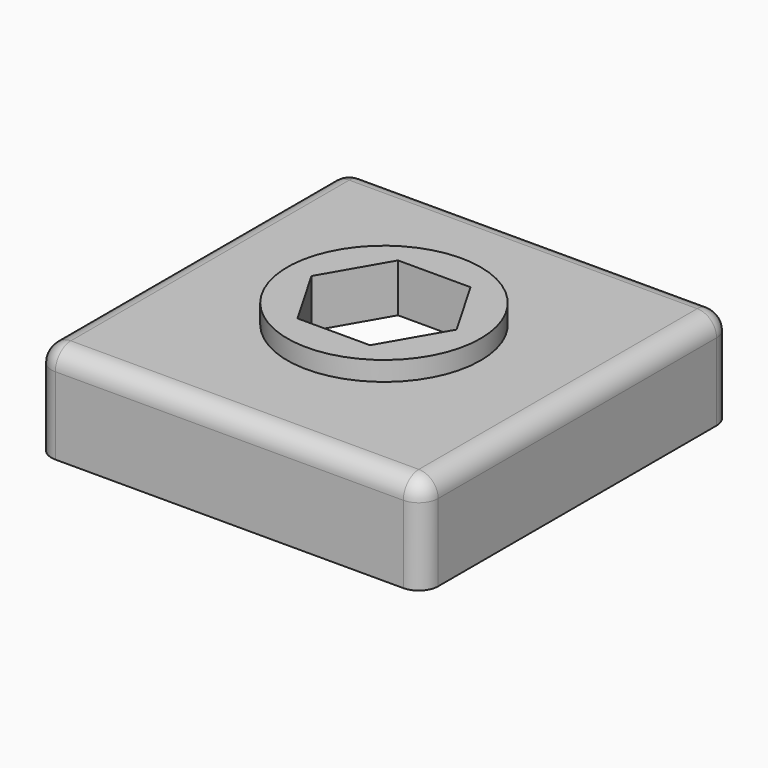
from build123d import *

# Parameters (mm, degrees)
CYLINDER008_R     = 5.5
CYLINDER008_DEPTH = 2
FILLET005_R       = 1
CYLINDER009_R     = 5.5
CYLINDER009_DEPTH = 2
FILLET006_R       = 1
CYLINDER006_R     = 5.5
CYLINDER006_DEPTH = 2
FILLET003_R       = 1
CYLINDER007_R     = 5.5
CYLINDER007_DEPTH = 2
FILLET004_R       = 1
BOX001_W          = 35.5
BOX001_H          = 35.5
BOX001_DEPTH      = 7
FILLET_R          = 1.5
PRISM_DEPTH       = 12
CYLINDER_R        = 10
CYLINDER_DEPTH    = 12
BOX_W             = 40
BOX_H             = 40
BOX_DEPTH         = 10
FILLET001_R       = 2


with BuildPart() as fillet005:
    # Cylinder008 → Cylinder008 (new body)
    with BuildSketch(Plane.XY):
        Circle(CYLINDER008_R)
    extrude(amount=CYLINDER008_DEPTH)

    # Fillet005
    fillet005_edges = [fillet005.edges().sort_by_distance(p)[0] for p in [
        (-5.5, 0, 2),
    ]]
    fillet(fillet005_edges, radius=FILLET005_R)


with BuildPart() as fillet005_1:
    # Fillet005 placement: moved
    add(fillet005.part.moved(Location((10, 30, 7))))


with BuildPart() as fillet006:
    # Cylinder009 → Cylinder009 (new body)
    with BuildSketch(Plane.XY):
        Circle(CYLINDER009_R)
    extrude(amount=CYLINDER009_DEPTH)

    # Fillet006
    fillet006_edges = [fillet006.edges().sort_by_distance(p)[0] for p in [
        (-5.5, 0, 2),
    ]]
    fillet(fillet006_edges, radius=FILLET006_R)


with BuildPart() as fillet006_1:
    # Fillet006 placement: moved
    add(fillet006.part.moved(Location((30, 30, 7))))


with BuildPart() as fillet003:
    # Cylinder006 → Cylinder006 (new body)
    with BuildSketch(Plane.XY):
        Circle(CYLINDER006_R)
    extrude(amount=CYLINDER006_DEPTH)

    # Fillet003
    fillet003_edges = [fillet003.edges().sort_by_distance(p)[0] for p in [
        (-5.5, 0, 2),
    ]]
    fillet(fillet003_edges, radius=FILLET003_R)


with BuildPart() as fillet003_1:
    # Fillet003 placement: moved
    add(fillet003.part.moved(Location((10, 10, 7))))


with BuildPart() as fillet004:
    # Cylinder007 → Cylinder007 (new body)
    with BuildSketch(Plane.XY):
        Circle(CYLINDER007_R)
    extrude(amount=CYLINDER007_DEPTH)

    # Fillet004
    fillet004_edges = [fillet004.edges().sort_by_distance(p)[0] for p in [
        (-5.5, 0, 2),
    ]]
    fillet(fillet004_edges, radius=FILLET004_R)


with BuildPart() as fillet004_1:
    # Fillet004 placement: moved
    add(fillet004.part.moved(Location((30, 10, 7))))


with BuildPart() as fillet_body:
    # Box001 → Box001 (new body)
    with BuildSketch(Plane(origin=(2.25, 2.25, 0), x_dir=(1, 0, 0), z_dir=(0, 0, 1))):
        with Locations((17.75, 17.75)):
            Rectangle(BOX001_W, BOX001_H)
    extrude(amount=BOX001_DEPTH)

    # Fillet
    fillet_edges = [fillet_body.edges().sort_by_distance(p)[0] for p in [
        (2.25, 2.25, 3.5),
        (2.25, 37.75, 3.5),
        (37.75, 2.25, 3.5),
        (37.75, 37.75, 3.5),
    ]]
    fillet(fillet_edges, radius=FILLET_R)


with BuildPart() as prism:
    # Prism → Prism (new body)
    with BuildSketch(Plane(origin=(20, 20, 0), x_dir=(1, 0, 0), z_dir=(0, 0, 1))):
        Polygon((7.505, 0), (3.7525, 6.499521), (-3.7525, 6.499521), (-7.505, 0), (-3.7525, -6.499521), (3.7525, -6.499521), align=None)
    extrude(amount=PRISM_DEPTH)


with BuildPart() as cylinder:
    # Cylinder → Cylinder (new body)
    with BuildSketch(Plane(origin=(20, 20, 0), x_dir=(1, 0, 0), z_dir=(0, 0, 1))):
        Circle(CYLINDER_R)
    extrude(amount=CYLINDER_DEPTH)


with BuildPart() as cut010:
    # Box → Box (new body)
    with BuildSketch(Plane.XY):
        with Locations((20, 20)):
            Rectangle(BOX_W, BOX_H)
    extrude(amount=BOX_DEPTH)

    # Fusion: union Cylinder
    add(cylinder.part)

    # Cut: cut Prism
    add(prism.part, mode=Mode.SUBTRACT)

    # Fillet001
    fillet001_edges = [cut010.edges().sort_by_distance(p)[0] for p in [
        (0, 0, 5),
        (0, 20, 10),
        (0, 40, 5),
        (40, 0, 5),
        (20, 0, 10),
        (20, 40, 10),
        (40, 20, 10),
        (40, 40, 5),
    ]]
    fillet(fillet001_edges, radius=FILLET001_R)

    # Cut001: cut Fillet body
    add(fillet_body.part, mode=Mode.SUBTRACT)

    # Cut007: cut Fillet004
    add(fillet004_1.part, mode=Mode.SUBTRACT)

    # Cut008: cut Fillet003
    add(fillet003_1.part, mode=Mode.SUBTRACT)

    # Cut009: cut Fillet006
    add(fillet006_1.part, mode=Mode.SUBTRACT)

    # Cut010: cut Fillet005
    add(fillet005_1.part, mode=Mode.SUBTRACT)


solid = cut010.part
